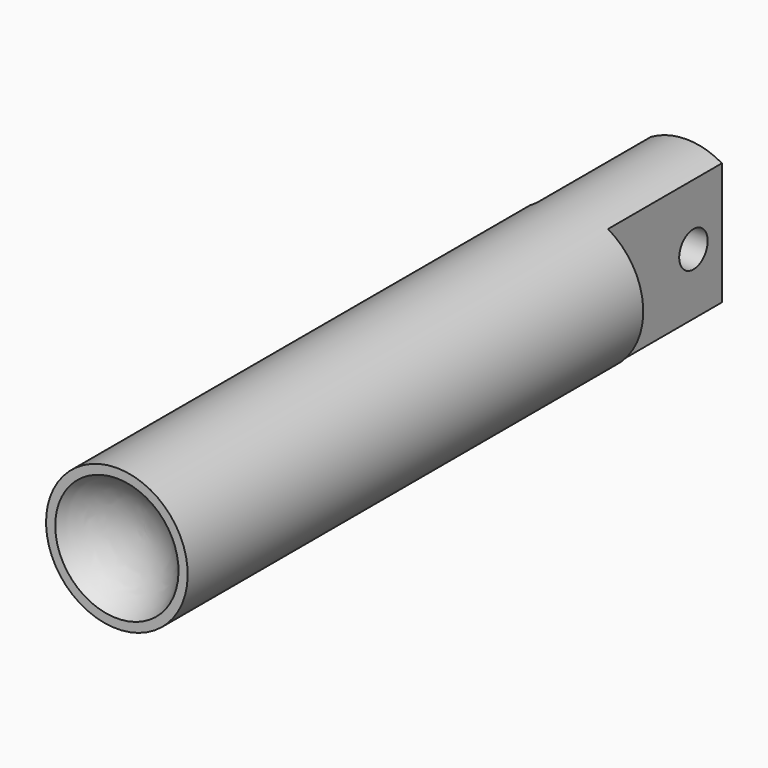
from build123d import *

# Parameters (mm, degrees)
F3_DEPTH = 25.4
F4_R     = 3.175
F5_DEPTH = 25.4


with BuildPart() as f1:
    # F0 (on Right) → F1 (revolve)
    with BuildSketch(Plane.YZ):
        with BuildLine():
            Line((63.5, 12.6365), (-63.5, 12.6365))
            Line((-63.5, 12.6365), (-63.5, 10.998523))
            ThreePointArc((-63.5, 10.998523), (-58.851477, 6.35), (-57.15, 0))
            Line((-57.15, 0), (63.5, 0))
            Line((63.5, 0), (63.5, 12.6365))
        make_face()
    revolve(axis=Axis((0, 4.125651, 0), (0, 1, 0)))

    # F2 (on face) → F3 (cut)
    with BuildSketch(Plane(origin=(0, 63.5, 0), x_dir=(-1, 0, 0), z_dir=(0, 1, 0))):
        with BuildLine():
            Line((6.35, 10.998523), (6.35, -10.998523))
            ThreePointArc((6.35, -10.998523), (12.7, 0), (6.35, 10.998523))
        make_face()
        with BuildLine():
            Line((-6.35, -10.998523), (-6.35, 10.998523))
            ThreePointArc((-6.35, 10.998523), (-12.7, 0), (-6.35, -10.998523))
        make_face()
    extrude(amount=-F3_DEPTH, mode=Mode.SUBTRACT)

    # F4 (on face) → F5 (cut)
    with BuildSketch(Plane.YZ.offset(6.35)):
        with Locations((57.15, 0)):
            Circle(F4_R)
    extrude(amount=-F5_DEPTH, mode=Mode.SUBTRACT)


solid = f1.part
